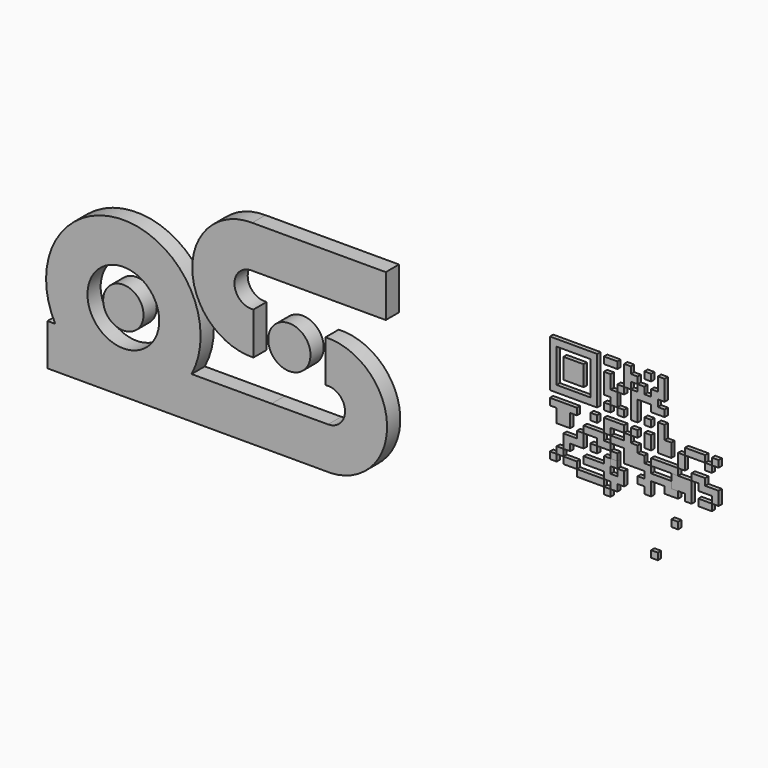
from build123d import *

# Parameters (mm, degrees)
F0_R     = 4.3395161629
F1_DEPTH = 2
F0_R_2   = 2.4395146005
F0_R_3   = 2.5519709308
F3_DEPTH = 0.5
F2_W     = 0.815644
F2_H     = 0.815643
F2_H_2   = 0.815644
F2_W_2   = 0.815643
F2_W_3   = 0.815642
F4_DEPTH = 0.5


with BuildPart() as f1:
    # F0 (on Front) → F1 (new body)
    with BuildSketch(Plane.XZ):
        with BuildLine():
            Line((-14.8116159018, 6.2437676988), (-24.4875539844, 6.2437676988))
            ThreePointArc((-24.4875539844, 6.2437676988), (-32.7433165279, 19.9710518145), (-40.9663380887, 6.2241299489))
            Line((-40.9663380887, 6.2241299489), (-41.9102776978, 6.2241299489))
            Line((-41.9102776978, 6.2241299489), (-41.9102776978, 1.1840492548))
            Line((-41.9102776978, 1.1840492548), (-8.3732662912, 1.1840492548))
            Line((-8.3732662912, 1.1840492548), (-7.5979484427, 1.1840492548))
            ThreePointArc((-7.5979484427, 1.1840492548), (-0.8642182975, 8.6538174396), (-8.2985674966, 15.4266315068))
            Line((-8.2985674966, 15.4266315068), (-8.2985674966, 10.3294734688))
            ThreePointArc((-8.2985674966, 10.3294734688), (-5.9417360129, 8.4619009739), (-7.982684243, 6.2535051787))
            Line((-7.982684243, 6.2535051787), (-14.8116159018, 6.2437676988))
        make_face()
        with Locations((-32.7321866453, 10.6315433265)):
            Circle(F0_R, mode=Mode.SUBTRACT)
    extrude(amount=F1_DEPTH)


with BuildPart() as f1b:
    # F0 (on Front) → F1, piece 2 (new body)
    with BuildSketch(Plane.XZ):
        with Locations((-32.7321866453, 10.6315433265)):
            Circle(F0_R_2)
    extrude(amount=F1_DEPTH)


with BuildPart() as f1c:
    # F0 (on Front) → F1, piece 3 (new body)
    with BuildSketch(Plane.XZ):
        with BuildLine():
            ThreePointArc((-17.0075811208, 15.5389610791), (-19.2975395712, 17.4524057377), (-17.2512110233, 19.6244369623))
            Line((-17.2512110233, 19.6244369623), (-1.0130283068, 19.6247231215))
            Line((-1.0130283068, 19.6247231215), (-1.0130283068, 24.7238486345))
            Line((-1.0130283068, 24.7238486345), (-17.1594568951, 24.7238486345))
            ThreePointArc((-17.1594568951, 24.7238486345), (-24.4007713688, 17.4984781882), (-17.0075811208, 10.4285877116))
            Line((-17.0075811208, 10.4285877116), (-17.0075811208, 15.5389610791))
        make_face()
    extrude(amount=F1_DEPTH)


with BuildPart() as f1d:
    # F0 (on Front) → F1, piece 4 (new body)
    with BuildSketch(Plane.XZ):
        with Locations((-12.6672685146, 12.9397045821)):
            Circle(F0_R_3)
    extrude(amount=F1_DEPTH)


with BuildPart() as f3:
    # F2 (on Front) → F3 (new body)
    with BuildSketch(Plane.XZ):
        Polygon((20.0743769809, 21.6979690011), (19.2587329809, 21.6979690011), (19.2587329809, 20.8823250011), (19.2587329809, 20.0666810011), (19.2587329809, 19.2510370011), (20.0743769809, 19.2510370011), (20.8900209809, 19.2510370011), (21.7056639809, 19.2510370011), (21.7056639809, 20.0666810011), (21.7056639809, 20.8823250011), (21.7056639809, 21.6979690011), (20.8900209809, 21.6979690011), align=None)
    extrude(amount=F3_DEPTH)


with BuildPart() as f3b:
    # F2 (on Front) → F3, piece 2 (new body)
    with BuildSketch(Plane.XZ):
        Polygon((18.4430889809, 23.3292550011), (17.6274459809, 23.3292550011), (17.6274459809, 22.5136120011), (17.6274459809, 21.6979690011), (17.6274459809, 20.8823250011), (17.6274459809, 20.0666810011), (17.6274459809, 19.2510370011), (17.6274459809, 18.4353930011), (17.6274459809, 17.6197500011), (18.4430889809, 17.6197500011), (19.2587329809, 17.6197500011), (20.0743769809, 17.6197500011), (20.8900209809, 17.6197500011), (21.7056639809, 17.6197500011), (22.5213079809, 17.6197500011), (23.3369509809, 17.6197500011), (23.3369509809, 18.4353930011), (23.3369509809, 19.2510370011), (23.3369509809, 20.0666810011), (23.3369509809, 20.8823250011), (23.3369509809, 21.6979690011), (23.3369509809, 22.5136120011), (23.3369509809, 23.3292550011), (22.5213079809, 23.3292550011), (21.7056639809, 23.3292550011), (20.8900209809, 23.3292550011), (20.0743769809, 23.3292550011), (19.2587329809, 23.3292550011), align=None)
        Polygon((18.4430889809, 21.6979690011), (18.4430889809, 22.5136120011), (19.2587329809, 22.5136120011), (20.0743769809, 22.5136120011), (20.8900209809, 22.5136120011), (21.7056639809, 22.5136120011), (22.5213079809, 22.5136120011), (22.5213079809, 21.6979690011), (22.5213079809, 20.8823250011), (22.5213079809, 20.0666810011), (22.5213079809, 19.2510370011), (22.5213079809, 18.4353930011), (21.7056639809, 18.4353930011), (20.8900209809, 18.4353930011), (20.0743769809, 18.4353930011), (19.2587329809, 18.4353930011), (18.4430889809, 18.4353930011), (18.4430889809, 19.2510370011), (18.4430889809, 20.0666810011), (18.4430889809, 20.8823250011), align=None, mode=Mode.SUBTRACT)
    extrude(amount=F3_DEPTH)


with BuildPart() as f3c:
    # F2 (on Front) → F3, piece 3 (new body)
    with BuildSketch(Plane.XZ):
        Polygon((24.9682389809, 23.3292550011), (24.1525949809, 23.3292550011), (24.1525949809, 22.5136120011), (24.9682389809, 22.5136120011), (25.7838829809, 22.5136120011), (25.7838829809, 23.3292550011), align=None)
    extrude(amount=F3_DEPTH)


with BuildPart() as f3d:
    # F2 (on Front) → F3, piece 4 (new body)
    with BuildSketch(Plane.XZ):
        Polygon((27.4151709809, 23.3292550011), (26.5995269809, 23.3292550011), (26.5995269809, 22.5136120011), (26.5995269809, 21.6979690011), (26.5995269809, 20.8823250011), (27.4151709809, 20.8823250011), (27.4151709809, 21.6979690011), (28.2308129809, 21.6979690011), (28.2308129809, 22.5136120011), (27.4151709809, 22.5136120011), align=None)
    extrude(amount=F3_DEPTH)


with BuildPart() as f3e:
    # F2 (on Front) → F3, piece 5 (new body)
    with BuildSketch(Plane.XZ):
        with Locations((29.4542789809, 22.9214335011)):
            Rectangle(F2_W, F2_H)
    extrude(amount=F3_DEPTH)


with BuildPart() as f3f:
    # F2 (on Front) → F3, piece 6 (new body)
    with BuildSketch(Plane.XZ):
        Polygon((28.2308129809, 20.8823250011), (27.4151709809, 20.8823250011), (27.4151709809, 20.0666810011), (27.4151709809, 19.2510370011), (27.4151709809, 18.4353930011), (27.4151709809, 17.6197500011), (28.2308129809, 17.6197500011), (28.2308129809, 18.4353930011), (28.2308129809, 19.2510370011), (28.2308129809, 20.0666810011), (29.0464569809, 20.0666810011), (29.8621009809, 20.0666810011), (29.8621009809, 19.2510370011), (30.6777449809, 19.2510370011), (31.4933879809, 19.2510370011), (31.4933879809, 20.0666810011), (30.6777449809, 20.0666810011), (30.6777449809, 20.8823250011), (31.4933879809, 20.8823250011), (31.4933879809, 21.6979690011), (31.4933879809, 22.5136120011), (31.4933879809, 23.3292550011), (30.6777449809, 23.3292550011), (30.6777449809, 22.5136120011), (30.6777449809, 21.6979690011), (29.8621009809, 21.6979690011), (29.8621009809, 20.8823250011), (29.0464569809, 20.8823250011), (29.0464569809, 21.6979690011), (28.2308129809, 21.6979690011), align=None)
    extrude(amount=F3_DEPTH)


with BuildPart() as f3g:
    # F2 (on Front) → F3, piece 7 (new body)
    with BuildSketch(Plane.XZ):
        with Locations((26.1917049809, 20.4745030011)):
            Rectangle(F2_W, F2_H_2)
    extrude(amount=F3_DEPTH)


with BuildPart() as f3h:
    # F2 (on Front) → F3, piece 8 (new body)
    with BuildSketch(Plane.XZ):
        Polygon((25.7838829809, 19.2510370011), (25.7838829809, 20.0666810011), (24.9682389809, 20.0666810011), (24.9682389809, 20.8823250011), (24.9682389809, 21.6979690011), (24.1525949809, 21.6979690011), (24.1525949809, 20.8823250011), (24.1525949809, 20.0666810011), (24.1525949809, 19.2510370011), (24.9682389809, 19.2510370011), (24.9682389809, 18.4353930011), (25.7838829809, 18.4353930011), align=None)
    extrude(amount=F3_DEPTH)


with BuildPart() as f3i:
    # F2 (on Front) → F3, piece 9 (new body)
    with BuildSketch(Plane.XZ):
        with Locations((26.1917049809, 18.0275715011)):
            Rectangle(F2_W, F2_H)
    extrude(amount=F3_DEPTH)


with BuildPart() as f3j:
    # F2 (on Front) → F3, piece 10 (new body)
    with BuildSketch(Plane.XZ):
        with Locations((24.5604169809, 18.0275715011)):
            Rectangle(F2_W, F2_H)
    extrude(amount=F3_DEPTH)


with BuildPart() as f3k:
    # F2 (on Front) → F3, piece 11 (new body)
    with BuildSketch(Plane.XZ):
        Polygon((18.4430889809, 16.8041060011), (17.6274459809, 16.8041060011), (17.6274459809, 15.9884620011), (18.4430889809, 15.9884620011), (18.4430889809, 15.1728180011), (18.4430889809, 14.3571740011), (19.2587329809, 14.3571740011), (20.0743769809, 14.3571740011), (20.0743769809, 15.1728180011), (20.0743769809, 15.9884620011), (20.8900209809, 15.9884620011), (20.8900209809, 16.8041060011), (20.0743769809, 16.8041060011), (19.2587329809, 16.8041060011), align=None)
    extrude(amount=F3_DEPTH)


with BuildPart() as f3l:
    # F2 (on Front) → F3, piece 12 (new body)
    with BuildSketch(Plane.XZ):
        with Locations((22.9291294809, 16.3962840011)):
            Rectangle(F2_W_2, F2_H_2)
    extrude(amount=F3_DEPTH)


with BuildPart() as f3m:
    # F2 (on Front) → F3, piece 13 (new body)
    with BuildSketch(Plane.XZ):
        with Locations((18.0352674809, 10.6867780011)):
            Rectangle(F2_W_2, F2_H_2)
    extrude(amount=F3_DEPTH)


with BuildPart() as f3n:
    # F2 (on Front) → F3, piece 14 (new body)
    with BuildSketch(Plane.XZ):
        with Locations((24.5604169809, 9.0554900011)):
            Rectangle(F2_W, F2_H_2)
    extrude(amount=F3_DEPTH)


with BuildPart() as f3o:
    # F2 (on Front) → F3, piece 15 (new body)
    with BuildSketch(Plane.XZ):
        Polygon((20.0743769809, 11.0946000011), (19.2587329809, 11.0946000011), (19.2587329809, 10.2789560011), (20.0743769809, 10.2789560011), (20.8900209809, 10.2789560011), (20.8900209809, 11.0946000011), align=None)
    extrude(amount=F3_DEPTH)


with BuildPart() as f3p:
    # F2 (on Front) → F3, piece 16 (new body)
    with BuildSketch(Plane.XZ):
        with Locations((18.8509109809, 11.5024215011)):
            Rectangle(F2_W, F2_H)
    extrude(amount=F3_DEPTH)


with BuildPart() as f3q:
    # F2 (on Front) → F3, piece 17 (new body)
    with BuildSketch(Plane.XZ):
        Polygon((21.7056639809, 13.5415310011), (21.7056639809, 14.3571740011), (20.8900209809, 14.3571740011), (20.8900209809, 13.5415310011), (20.0743769809, 13.5415310011), (19.2587329809, 13.5415310011), (19.2587329809, 12.7258870011), (19.2587329809, 11.9102430011), (20.0743769809, 11.9102430011), (20.0743769809, 12.7258870011), (20.8900209809, 12.7258870011), (21.7056639809, 12.7258870011), align=None)
    extrude(amount=F3_DEPTH)


with BuildPart() as f3r:
    # F2 (on Front) → F3, piece 18 (new body)
    with BuildSketch(Plane.XZ):
        with Locations((22.9291294809, 13.1337090011)):
            Rectangle(F2_W_2, F2_H_2)
    extrude(amount=F3_DEPTH)


with BuildPart() as f3s:
    # F2 (on Front) → F3, piece 19 (new body)
    with BuildSketch(Plane.XZ):
        Polygon((24.1525949809, 9.4633120011), (24.1525949809, 10.2789560011), (23.3369509809, 10.2789560011), (22.5213079809, 10.2789560011), (21.7056639809, 10.2789560011), (20.8900209809, 10.2789560011), (20.8900209809, 9.4633120011), (21.7056639809, 9.4633120011), (22.5213079809, 9.4633120011), (23.3369509809, 9.4633120011), align=None)
    extrude(amount=F3_DEPTH)


with BuildPart() as f3t:
    # F2 (on Front) → F3, piece 20 (new body)
    with BuildSketch(Plane.XZ):
        Polygon((24.1525949809, 14.3571740011), (24.1525949809, 15.1728180011), (23.3369509809, 15.1728180011), (22.5213079809, 15.1728180011), (21.7056639809, 15.1728180011), (21.7056639809, 14.3571740011), (22.5213079809, 14.3571740011), (23.3369509809, 14.3571740011), (23.3369509809, 13.5415310011), (24.1525949809, 13.5415310011), (24.9682389809, 13.5415310011), (24.9682389809, 14.3571740011), align=None)
    extrude(amount=F3_DEPTH)


with BuildPart() as f3u:
    # F2 (on Front) → F3, piece 21 (new body)
    with BuildSketch(Plane.XZ):
        Polygon((26.5995269809, 11.9102430011), (25.7838829809, 11.9102430011), (25.7838829809, 11.0946000011), (24.9682389809, 11.0946000011), (24.1525949809, 11.0946000011), (24.1525949809, 10.2789560011), (24.9682389809, 10.2789560011), (24.9682389809, 9.4633120011), (25.7838829809, 9.4633120011), (25.7838829809, 10.2789560011), (26.5995269809, 10.2789560011), (26.5995269809, 11.0946000011), align=None)
        Polygon((24.9682389809, 11.0946000011), (24.9682389809, 11.9102430011), (24.1525949809, 11.9102430011), (23.3369509809, 11.9102430011), (22.5213079809, 11.9102430011), (21.7056639809, 11.9102430011), (21.7056639809, 11.0946000011), (22.5213079809, 11.0946000011), (23.3369509809, 11.0946000011), (24.1525949809, 11.0946000011), align=None)
        with Locations((24.5604169809, 12.3180650011)):
            Rectangle(F2_W, F2_H_2)
    extrude(amount=F3_DEPTH)


with BuildPart() as f3v:
    # F2 (on Front) → F3, piece 22 (new body)
    with BuildSketch(Plane.XZ):
        with Locations((25.3760609809, 13.1337090011)):
            Rectangle(F2_W, F2_H_2)
    extrude(amount=F3_DEPTH)


with BuildPart() as f3w:
    # F2 (on Front) → F3, piece 23 (new body)
    with BuildSketch(Plane.XZ):
        Polygon((25.7838829809, 15.1728180011), (24.9682389809, 15.1728180011), (24.9682389809, 14.3571740011), (25.7838829809, 14.3571740011), (26.5995269809, 14.3571740011), (26.5995269809, 13.5415310011), (26.5995269809, 12.7258870011), (27.4151709809, 12.7258870011), (28.2308129809, 12.7258870011), (29.0464569809, 12.7258870011), (29.0464569809, 13.5415310011), (29.0464569809, 14.3571740011), (28.2308129809, 14.3571740011), (28.2308129809, 15.1728180011), (27.4151709809, 15.1728180011), (27.4151709809, 15.9884620011), (26.5995269809, 15.9884620011), (26.5995269809, 15.1728180011), align=None)
        Polygon((29.8621009809, 13.5415310011), (29.0464569809, 13.5415310011), (29.0464569809, 12.7258870011), (29.0464569809, 11.9102430011), (28.2308129809, 11.9102430011), (28.2308129809, 11.0946000011), (29.0464569809, 11.0946000011), (29.0464569809, 10.2789560011), (29.8621009809, 10.2789560011), (29.8621009809, 11.0946000011), (29.8621009809, 11.9102430011), (29.8621009809, 12.7258870011), align=None)
        Polygon((30.6777449809, 12.7258870011), (29.8621009809, 12.7258870011), (29.8621009809, 11.9102430011), (30.6777449809, 11.9102430011), (31.4933879809, 11.9102430011), (31.4933879809, 11.0946000011), (32.3090319809, 11.0946000011), (33.1246749809, 11.0946000011), (33.1246749809, 11.9102430011), (32.3090319809, 11.9102430011), (32.3090319809, 12.7258870011), (31.4933879809, 12.7258870011), align=None)
    extrude(amount=F3_DEPTH)


with BuildPart() as f3x:
    # F2 (on Front) → F3, piece 24 (new body)
    with BuildSketch(Plane.XZ):
        with Locations((29.4542789809, 18.0275715011)):
            Rectangle(F2_W, F2_H)
    extrude(amount=F3_DEPTH)


with BuildPart() as f3y:
    # F2 (on Front) → F3, piece 25 (new body)
    with BuildSketch(Plane.XZ):
        Polygon((31.4933879809, 18.4353930011), (30.6777449809, 18.4353930011), (30.6777449809, 17.6197500011), (30.6777449809, 16.8041060011), (30.6777449809, 15.9884620011), (30.6777449809, 15.1728180011), (31.4933879809, 15.1728180011), (32.3090319809, 15.1728180011), (32.3090319809, 15.9884620011), (32.3090319809, 16.8041060011), (31.4933879809, 16.8041060011), (31.4933879809, 17.6197500011), align=None)
    extrude(amount=F3_DEPTH)


with BuildPart() as f3z:
    # F2 (on Front) → F3, piece 26 (new body)
    with BuildSketch(Plane.XZ):
        with Locations((27.8229919809, 16.3962840011)):
            Rectangle(F2_W_3, F2_H_2)
    extrude(amount=F3_DEPTH)


with BuildPart() as f3ba:
    # F2 (on Front) → F3, piece 27 (new body)
    with BuildSketch(Plane.XZ):
        Polygon((33.1246749809, 15.1728180011), (33.1246749809, 14.3571740011), (33.9403189809, 14.3571740011), (33.9403189809, 15.1728180011), (33.9403189809, 15.9884620011), (33.1246749809, 15.9884620011), align=None)
    extrude(amount=F3_DEPTH)


with BuildPart() as f3bb:
    # F2 (on Front) → F3, piece 28 (new body)
    with BuildSketch(Plane.XZ):
        Polygon((33.9403189809, 16.8041060011), (33.9403189809, 15.9884620011), (34.7559629809, 15.9884620011), (35.5716069809, 15.9884620011), (36.3872509809, 15.9884620011), (36.3872509809, 16.8041060011), (35.5716069809, 16.8041060011), (34.7559629809, 16.8041060011), align=None)
    extrude(amount=F3_DEPTH)


with BuildPart() as f3bc:
    # F2 (on Front) → F3, piece 29 (new body)
    with BuildSketch(Plane.XZ):
        with Locations((36.7950729809, 15.5806400011)):
            Rectangle(F2_W, F2_H_2)
    extrude(amount=F3_DEPTH)


with BuildPart() as f3bd:
    # F2 (on Front) → F3, piece 30 (new body)
    with BuildSketch(Plane.XZ):
        with Locations((37.6107164809, 16.3962840011)):
            Rectangle(F2_W_2, F2_H_2)
    extrude(amount=F3_DEPTH)


with BuildPart() as f3be:
    # F2 (on Front) → F3, piece 31 (new body)
    with BuildSketch(Plane.XZ):
        Polygon((29.8621009809, 16.8041060011), (29.0464569809, 16.8041060011), (29.0464569809, 15.9884620011), (29.0464569809, 15.1728180011), (29.8621009809, 15.1728180011), (29.8621009809, 15.9884620011), align=None)
    extrude(amount=F3_DEPTH)


with BuildPart() as f3bf:
    # F2 (on Front) → F3, piece 32 (new body)
    with BuildSketch(Plane.XZ):
        Polygon((24.9682389809, 16.8041060011), (24.1525949809, 16.8041060011), (24.1525949809, 15.9884620011), (24.1525949809, 15.1728180011), (24.9682389809, 15.1728180011), (24.9682389809, 15.9884620011), (25.7838829809, 15.9884620011), (26.5995269809, 15.9884620011), (26.5995269809, 16.8041060011), (25.7838829809, 16.8041060011), align=None)
    extrude(amount=F3_DEPTH)


with BuildPart() as f3bg:
    # F2 (on Front) → F3, piece 33 (new body)
    with BuildSketch(Plane.XZ):
        Polygon((29.8621009809, 14.3571740011), (29.8621009809, 13.5415310011), (30.6777449809, 13.5415310011), (31.4933879809, 13.5415310011), (32.3090319809, 13.5415310011), (33.1246749809, 13.5415310011), (33.1246749809, 14.3571740011), (32.3090319809, 14.3571740011), (31.4933879809, 14.3571740011), (30.6777449809, 14.3571740011), align=None)
    extrude(amount=F3_DEPTH)


with BuildPart() as f3bh:
    # F2 (on Front) → F3, piece 34 (new body)
    with BuildSketch(Plane.XZ):
        Polygon((34.7559629809, 14.3571740011), (34.7559629809, 13.5415310011), (35.5716069809, 13.5415310011), (35.5716069809, 12.7258870011), (36.3872509809, 12.7258870011), (37.2028949809, 12.7258870011), (37.2028949809, 11.9102430011), (38.0185379809, 11.9102430011), (38.0185379809, 12.7258870011), (38.0185379809, 13.5415310011), (37.2028949809, 13.5415310011), (36.3872509809, 13.5415310011), (36.3872509809, 14.3571740011), (35.5716069809, 14.3571740011), align=None)
    extrude(amount=F3_DEPTH)


with BuildPart() as f3bi:
    # F2 (on Front) → F3, piece 35 (new body)
    with BuildSketch(Plane.XZ):
        with Locations((30.2699229809, 4.1616280011)):
            Rectangle(F2_W, F2_H_2)
    extrude(amount=F3_DEPTH)


with BuildPart() as f3bj:
    # F2 (on Front) → F3, piece 36 (new body)
    with BuildSketch(Plane.XZ):
        with Locations((32.7168534809, 8.2398465011)):
            Rectangle(F2_W_2, F2_H)
    extrude(amount=F3_DEPTH)


with BuildPart() as f3bk:
    # F2 (on Front) → F3, piece 37 (new body)
    with BuildSketch(Plane.XZ):
        Polygon((35.5716069809, 11.9102430011), (35.5716069809, 11.0946000011), (36.3872509809, 11.0946000011), (37.2028949809, 11.0946000011), (37.2028949809, 11.9102430011), (36.3872509809, 11.9102430011), align=None)
    extrude(amount=F3_DEPTH)


with BuildPart() as f4:
    # F2 (on Front) → F4 (new body)
    with BuildSketch(Plane.XZ):
        with Locations((25.3760609809, 12.3180650011)):
            Rectangle(F2_W, F2_H_2)
    extrude(amount=F4_DEPTH)


with BuildPart() as f4b:
    # F2 (on Front) → F4, piece 2 (new body)
    with BuildSketch(Plane.XZ):
        Polygon((33.1246749809, 13.5415310011), (32.3090319809, 13.5415310011), (32.3090319809, 12.7258870011), (32.3090319809, 11.9102430011), (33.1246749809, 11.9102430011), (33.9403189809, 11.9102430011), (33.9403189809, 11.0946000011), (34.7559629809, 11.0946000011), (34.7559629809, 11.9102430011), (34.7559629809, 12.7258870011), (34.7559629809, 13.5415310011), (33.9403189809, 13.5415310011), align=None)
    extrude(amount=F4_DEPTH)


solid = Compound([f1.part, f1b.part, f1c.part, f1d.part, f3.part, f3b.part, f3c.part, f3d.part, f3e.part, f3f.part, f3g.part, f3h.part, f3i.part, f3j.part, f3k.part, f3l.part, f3m.part, f3n.part, f3o.part, f3p.part, f3q.part, f3r.part, f3s.part, f3t.part, f3u.part, f3v.part, f3w.part, f3x.part, f3y.part, f3z.part, f3ba.part, f3bb.part, f3bc.part, f3bd.part, f3be.part, f3bf.part, f3bg.part, f3bh.part, f3bi.part, f3bj.part, f3bk.part, f4.part, f4b.part])
